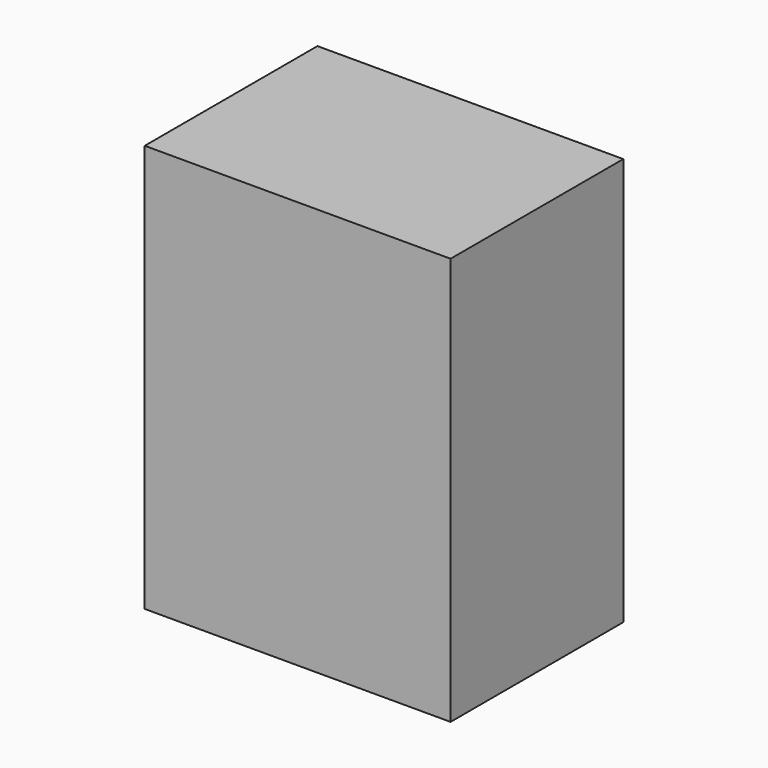
from build123d import *

# Parameters (mm, degrees)
F0_W     = 63.75
F0_H     = 85
F1_DEPTH = 45
F2_SCALE = 2.54


with BuildPart() as f1:
    # F0 (on Front) → F1 (new body)
    with BuildSketch(Plane.XZ):
        with Locations((31.875, 42.5)):
            Rectangle(F0_W, F0_H)
    extrude(amount=-F1_DEPTH)


with BuildPart() as f1_1:
    # F2: moved
    add(f1.part.scale(F2_SCALE))


solid = f1_1.part
